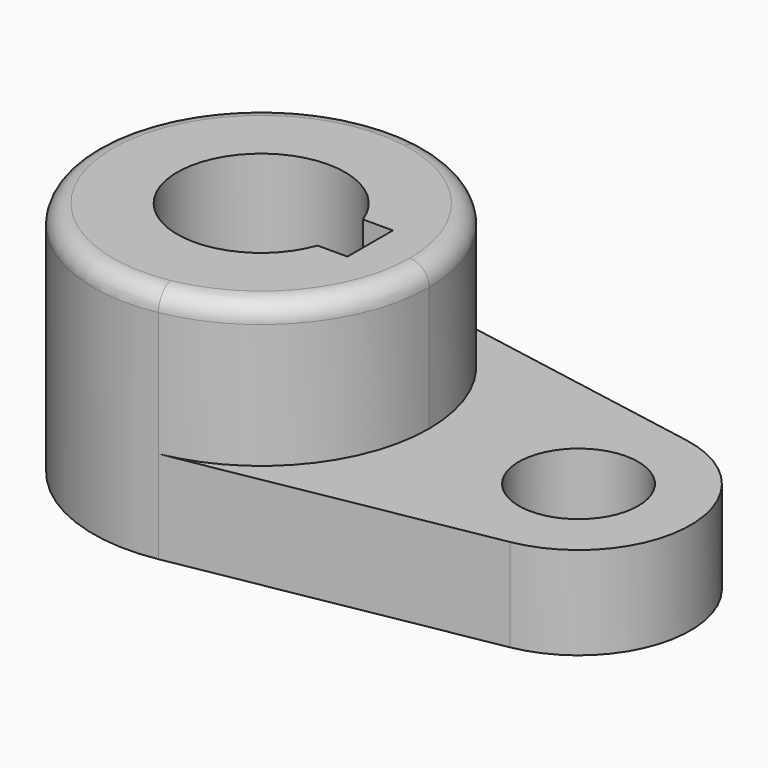
from build123d import *

# Parameters (mm, degrees)
F1_DEPTH = 40.2336
F0_R     = 10.16
F2_DEPTH = 15.7734
F3_R     = 3.302


with BuildPart() as f1:
    # F0 (on Top) → F1 (new body)
    with BuildSketch(Plane.XY):
        with BuildLine():
            ThreePointArc((5.042647, 28.126541), (-28.575, 0), (5.042647, -28.126541))
            ThreePointArc((5.042647, -28.126541), (21.916025, -18.336262), (28.575, 0))
            ThreePointArc((28.575, 0), (21.916025, 18.336262), (5.042647, 28.126541))
        make_face()
        with BuildLine():
            ThreePointArc((13.447765, -4.826), (-14.2875, 0), (13.447765, 4.826))
            Line((13.447765, 4.826), (18.542, 4.826))
            Line((18.542, 4.826), (18.542, -4.826))
            Line((18.542, -4.826), (13.447765, -4.826))
        make_face(mode=Mode.SUBTRACT)
    extrude(amount=F1_DEPTH)

    # F0 (on Top) → F2 (join)
    with BuildSketch(Plane.XY):
        with BuildLine():
            Line((5.042647, -28.126541), (57.336765, -18.751028))
            ThreePointArc((57.336765, -18.751028), (73.025, 0), (57.336765, 18.751028))
            Line((57.336765, 18.751028), (5.042647, 28.126541))
            ThreePointArc((5.042647, 28.126541), (21.916025, 18.336262), (28.575, 0))
            ThreePointArc((28.575, 0), (21.916025, -18.336262), (5.042647, -28.126541))
        make_face()
        with Locations((53.975, 0)):
            Circle(F0_R, mode=Mode.SUBTRACT)
    extrude(amount=F2_DEPTH)

    # F3
    f3_edges = [f1.edges().sort_by_distance(p)[0] for p in [
        (-5.042647, 28.126541, 40.2336),
    ]]
    fillet(f3_edges, radius=F3_R)


solid = f1.part
